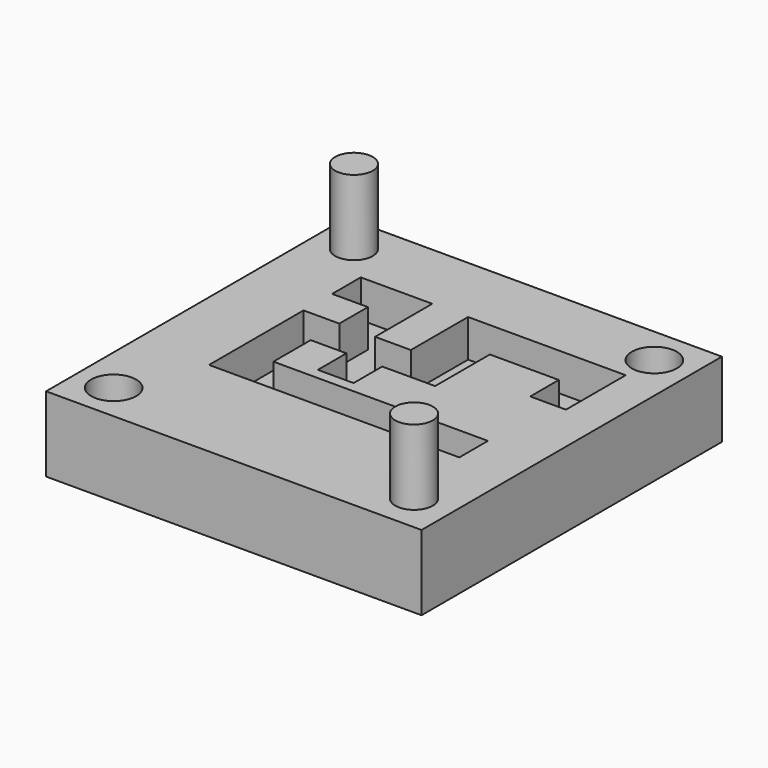
from build123d import *

# Parameters (mm, degrees)
F0_W     = 50
F0_H     = 50
F0_R     = 3
F1_DEPTH = 5
F2_DEPTH = 5
F3_R     = 2.5
F4_DEPTH = 10


with BuildPart() as f1:
    # F0 (on Top) → F1 (new body, symmetric)
    with BuildSketch(Plane.XY):
        with Locations((25, -25)):
            Rectangle(F0_W, F0_H)
        with Locations((5, -45)):
            Circle(F0_R, mode=Mode.SUBTRACT)
        Polygon((14.2875, -30.020106), (38.09502, -30.020106), (42.85752, -30.020106), (42.85752, -34.782606), (38.09502, -34.782606), (9.525, -34.782606), (9.525, -28.575), (9.525, -19.05), (14.2875, -19.05), (14.2875, -14.2875), (9.525, -14.2875), (9.525, -9.525), (19.05, -9.525), (19.05, -19.05), (23.8125, -19.05), (23.8125, -9.525), (28.575, -9.525), (38.80062, -9.525), (44.80062, -9.525), (44.80062, -19.461621), (40.03812, -19.461621), (40.03812, -14.699121), (30.854725, -14.699121), (30.854725, -19.461621), (30.854725, -23.8125), (23.8125, -23.8125), (23.8125, -28.575), (19.05, -28.575), (19.05, -23.8125), (14.2875, -23.8125), (14.2875, -28.575), align=None, mode=Mode.SUBTRACT)
        with Locations((45, -5)):
            Circle(F0_R, mode=Mode.SUBTRACT)
    extrude(amount=F1_DEPTH, both=True)

    # F0 (on Top) → F2 (join)
    with BuildSketch(Plane.XY):
        Polygon((38.09502, -34.782606), (38.09502, -30.020106), (14.2875, -30.020106), (14.2875, -28.575), (14.2875, -23.8125), (19.05, -23.8125), (19.05, -28.575), (23.8125, -28.575), (23.8125, -23.8125), (30.854725, -23.8125), (30.854725, -19.461621), (30.854725, -14.699121), (40.03812, -14.699121), (40.03812, -19.461621), (44.80062, -19.461621), (44.80062, -9.525), (38.80062, -9.525), (28.575, -9.525), (23.8125, -9.525), (23.8125, -19.05), (19.05, -19.05), (19.05, -9.525), (9.525, -9.525), (9.525, -14.2875), (14.2875, -14.2875), (14.2875, -19.05), (9.525, -19.05), (9.525, -28.575), (9.525, -34.782606), align=None)
    extrude(amount=-F2_DEPTH)

    # F3 (on face) → F4 (join)
    with BuildSketch(Plane.XY.offset(5)):
        with Locations((5, -5)):
            Circle(F3_R)
        with Locations((45, -45)):
            Circle(F3_R)
    extrude(amount=F4_DEPTH)


solid = f1.part
